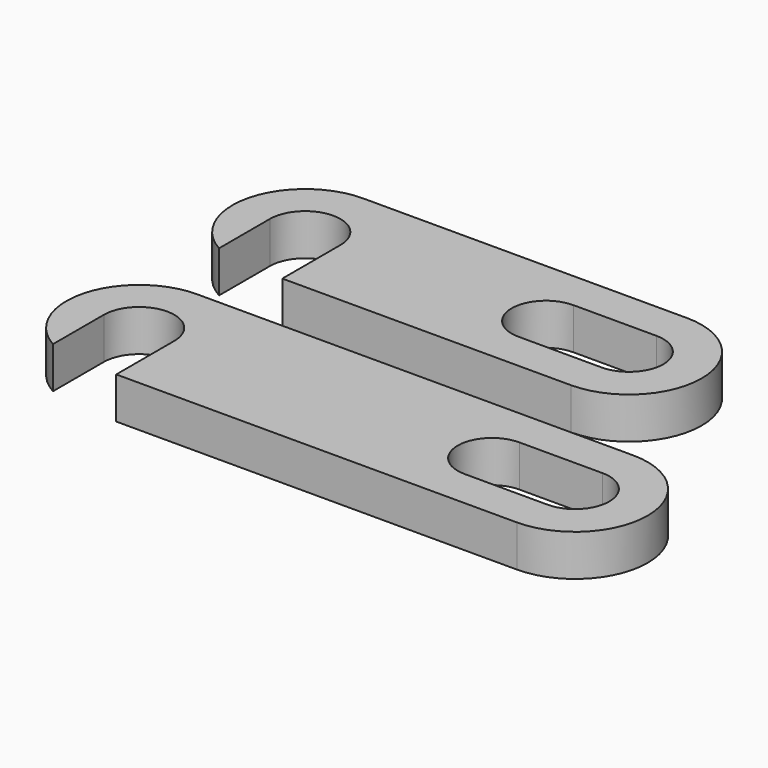
from build123d import *

# Parameters (mm, degrees)
SKETCH_R        = 1.7
PAD_DEPTH       = 2
SKETCH001_W     = 3.4
SKETCH001_H     = 3.5
POCKET_DEPTH    = 2.001
SKETCH003_R     = 1.7
PAD001_DEPTH    = 2
SKETCH002_W     = 3.4
SKETCH002_H     = 3.5
POCKET001_DEPTH = 2.001


with BuildPart() as a:
    # Sketch → Pad (new body)
    with BuildSketch(Plane.XY):
        with BuildLine():
            ThreePointArc((0, 3.5), (-3.5, 0), (0, -3.5))
            Line((0, -3.5), (15.6, -3.5))
            ThreePointArc((15.6, -3.5), (19.1, 0), (15.6, 3.5))
            Line((0, 3.5), (15.6, 3.5))
        make_face()
        Circle(SKETCH_R, mode=Mode.SUBTRACT)
        with BuildLine():
            ThreePointArc((15.6, -1.65), (17.25, 0), (15.6, 1.65))
            Line((15.6, 1.65), (11.6, 1.65))
            ThreePointArc((11.6, 1.65), (9.95, 0), (11.6, -1.65))
            Line((15.6, -1.65), (11.6, -1.65))
        make_face(mode=Mode.SUBTRACT)
    extrude(amount=PAD_DEPTH)

    # Sketch001 (on Face8 of Pad) → Pocket (cut, through all)
    with BuildSketch(Plane.XY.offset(2)):
        with Locations((0, -1.75)):
            Rectangle(SKETCH001_W, SKETCH001_H)
    extrude(amount=-POCKET_DEPTH, mode=Mode.SUBTRACT)


with BuildPart() as b:
    # Sketch003 → Pad001 (new body)
    with BuildSketch(Plane.XY):
        with BuildLine():
            ThreePointArc((0, 3.5), (-3.5, 0), (0, -3.5))
            Line((0, -3.5), (21, -3.5))
            ThreePointArc((21, -3.5), (24.5, 0), (21, 3.5))
            Line((0, 3.5), (21, 3.5))
        make_face()
        Circle(SKETCH003_R, mode=Mode.SUBTRACT)
        with BuildLine():
            ThreePointArc((21, -1.65), (22.65, 0), (21, 1.65))
            Line((21, 1.65), (17, 1.65))
            ThreePointArc((17, 1.65), (15.35, 0), (17, -1.65))
            Line((21, -1.65), (17, -1.65))
        make_face(mode=Mode.SUBTRACT)
    extrude(amount=PAD001_DEPTH)

    # Sketch002 (on Face8 of Pad001) → Pocket001 (cut, through all)
    with BuildSketch(Plane.XY.offset(2)):
        with Locations((0, -1.75)):
            Rectangle(SKETCH002_W, SKETCH002_H)
    extrude(amount=-POCKET001_DEPTH, mode=Mode.SUBTRACT)


with BuildPart() as b_1:
    # Body001 placement: moved
    add(b.part.moved(Location((0, -10, 0))))


solid = Compound([a.part, b_1.part])
